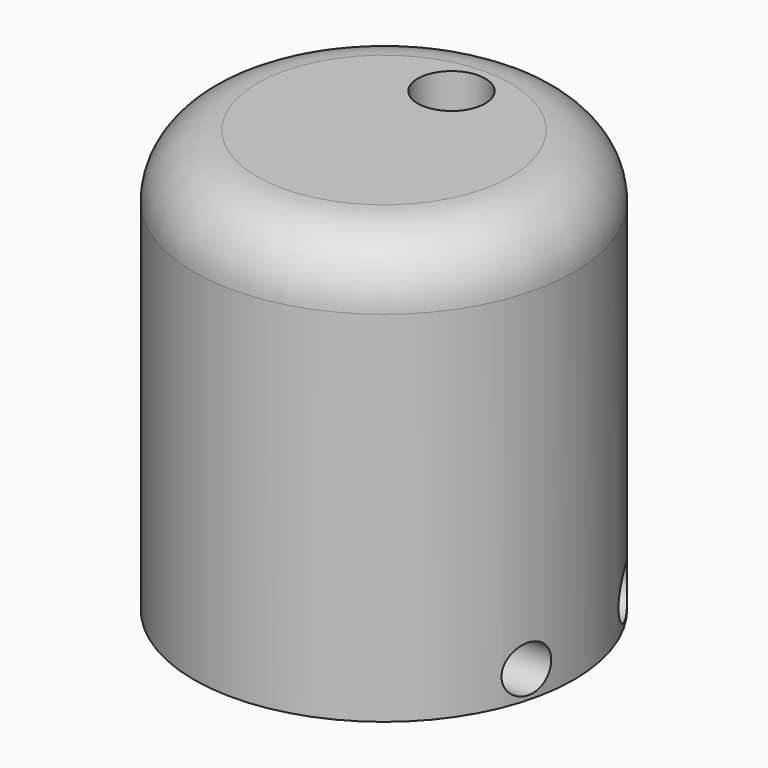
from build123d import *

# Parameters (mm, degrees)
SKETCH_R        = 9
PAD_DEPTH       = 20
SKETCH001_W     = 6
SKETCH001_H     = 13.2
POCKET_DEPTH    = 10
SKETCH002_R     = 1.6
POCKET001_DEPTH = 11
FILLET_R        = 3
SKETCH003_R     = 2.5
POCKET002_DEPTH = 3
SKETCH004_R     = 1.1
POCKET003_DEPTH = 13


with BuildPart() as part:
    # Sketch → Pad (new body)
    with BuildSketch(Plane.XY):
        Circle(SKETCH_R)
    extrude(amount=PAD_DEPTH)

    # Sketch001 (on Face2 of Pad) → Pocket (cut)
    with BuildSketch(Plane(origin=(0, 0, 0), x_dir=(1, 0, 0), z_dir=(0, 0, -1))):
        with Locations((0, -1.063468)):
            Rectangle(SKETCH001_W, SKETCH001_H)
    extrude(amount=-POCKET_DEPTH, mode=Mode.SUBTRACT)

    # Sketch002 (on Face3 of Pocket) → Pocket001 (cut)
    with BuildSketch(Plane.XY.offset(20)):
        with Locations((0, 4)):
            Circle(SKETCH002_R)
    extrude(amount=-POCKET001_DEPTH, mode=Mode.SUBTRACT)

    # Fillet
    fillet_edges = [part.edges().sort_by_distance(p)[0] for p in [
        (-9, 0, 20),
    ]]
    fillet(fillet_edges, radius=FILLET_R)

    # Sketch003 (on Face10 of Fillet) → Pocket002 (cut)
    with BuildSketch(Plane(origin=(0, 0, 10), x_dir=(1, 0, 0), z_dir=(0, 0, -1))):
        with Locations((0, -4)):
            Circle(SKETCH003_R)
    extrude(amount=-POCKET002_DEPTH, mode=Mode.SUBTRACT)

    # Sketch004 (on Face6 of Pocket002) → Pocket003 (cut)
    with BuildSketch(Plane(origin=(3, 0, 0), x_dir=(0, -1, 0), z_dir=(-1, 0, 0))):
        with Locations((2.337519, 1.3)):
            Circle(SKETCH004_R)
        with Locations((-4.657478, 1.3)):
            Circle(SKETCH004_R)
    extrude(amount=-POCKET003_DEPTH, mode=Mode.SUBTRACT)


solid = part.part
